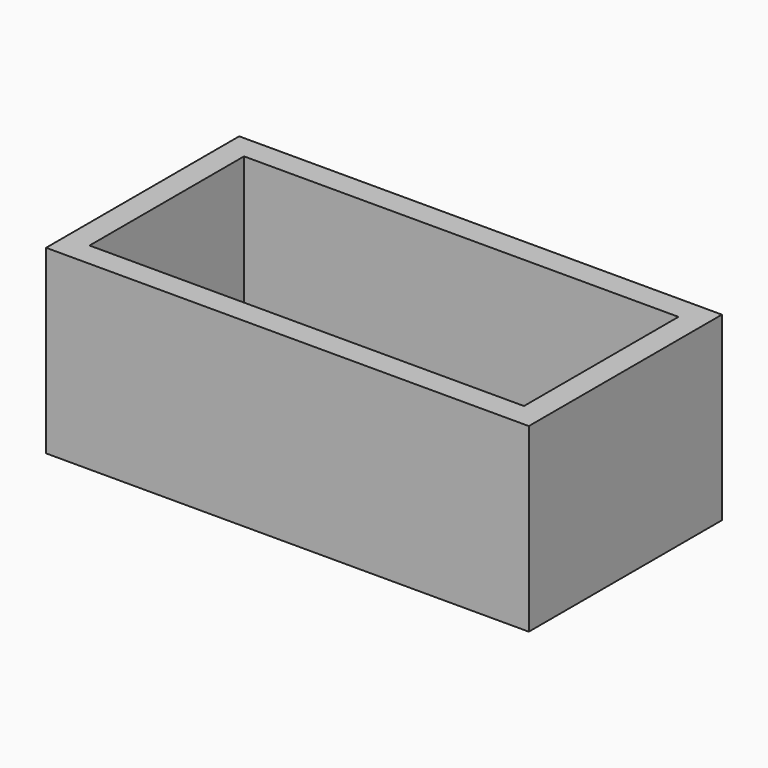
from build123d import *

# Parameters (mm, degrees)
F0_W     = 50.8
F0_H     = 25.4
F1_DEPTH = 19.05
F2_T     = -2.54
F3_R     = 2.9765625
F4_DEPTH = 2.54
F5_T     = -1.190625


with BuildPart() as f1:
    # F0 (on Top) → F1 (new body)
    with BuildSketch(Plane.XY):
        with Locations((25.4, 12.7)):
            Rectangle(F0_W, F0_H)
    extrude(amount=F1_DEPTH)

    # F2
    f2_openings = [f1.faces().sort_by_distance(p)[0] for p in [
        (25.4, 12.7, 19.05),
    ]]
    offset(amount=F2_T, openings=f2_openings)

    # F3 (on face) → F4 (join)
    with BuildSketch(Plane.XY.offset(2.54)):
        with Locations((6.3850102015, 15.0532536209)):
            Circle(F3_R)
    extrude(amount=F4_DEPTH)

    # F5
    f5_openings = [f1.faces().sort_by_distance(p)[0] for p in [
        (6.38501, 15.053254, 5.08),
    ]]
    offset(amount=F5_T, openings=f5_openings, kind=Kind.INTERSECTION)


solid = f1.part
